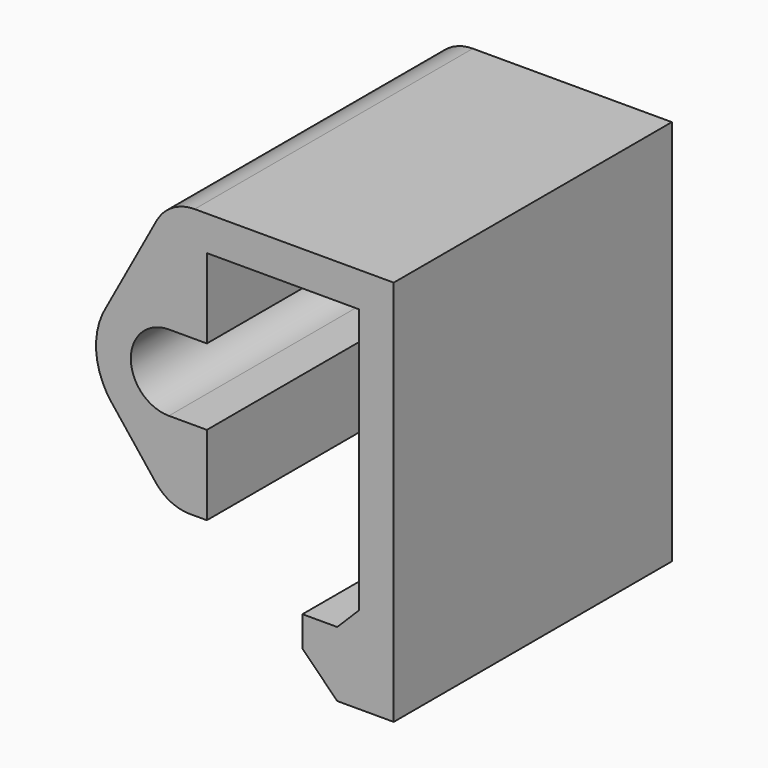
from build123d import *

# Parameters (mm, degrees)
F1_DEPTH = 8
F2_SIZE  = 0.5
F3_SIZE  = 0.8
F4_R     = 1


with BuildPart() as f1:
    # F0 (on Front) → F1 (new body)
    with BuildSketch(Plane.XZ):
        with BuildLine():
            Line((0, 6.6), (0, 0))
            Line((0, 0), (-1.3, 0))
            Line((-1.3, 0), (-1.3, -1.5))
            Line((-1.3, -1.5), (0.8, -1.5))
            Line((0.8, -1.5), (0.8, 0))
            Line((0.8, 0), (0.8, 7.4))
            Line((0.8, 7.4), (-3.5, 7.4))
            Line((-3.5, 7.4), (-4.375, 7.4))
            Line((-4.375, 7.4), (-5.805823, 4.768717))
            ThreePointArc((-5.805823, 4.768717), (-6.047673, 3.794818), (-5.690622, 2.857009))
            Line((-5.690622, 2.857009), (-4.375, 1.187434))
            Line((-4.375, 1.187434), (-3.5, 1.187434))
            Line((-3.5, 1.187434), (-3.5, 3.018717))
            Line((-3.5, 3.018717), (-4.375, 3.018717))
            ThreePointArc((-4.375, 3.018717), (-5.25, 3.893717), (-4.375, 4.768717))
            Line((-4.375, 4.768717), (-3.5, 4.768717))
            Line((-3.5, 4.768717), (-3.5, 6.6))
            Line((-3.5, 6.6), (0, 6.6))
        make_face()
    extrude(amount=F1_DEPTH)

    # F2
    f2_edges = [f1.edges().sort_by_distance(p)[0] for p in [
        (0, -4, 0),
    ]]
    chamfer(f2_edges, length=F2_SIZE)

    # F3
    f3_edges = [f1.edges().sort_by_distance(p)[0] for p in [
        (-1.3, -4, -1.5),
    ]]
    chamfer(f3_edges, length=F3_SIZE)

    # F4
    f4_edges = [f1.edges().sort_by_distance(p)[0] for p in [
        (-4.375, -4, 1.187434),
        (-4.375, -4, 7.4),
    ]]
    fillet(f4_edges, radius=F4_R)


solid = f1.part
